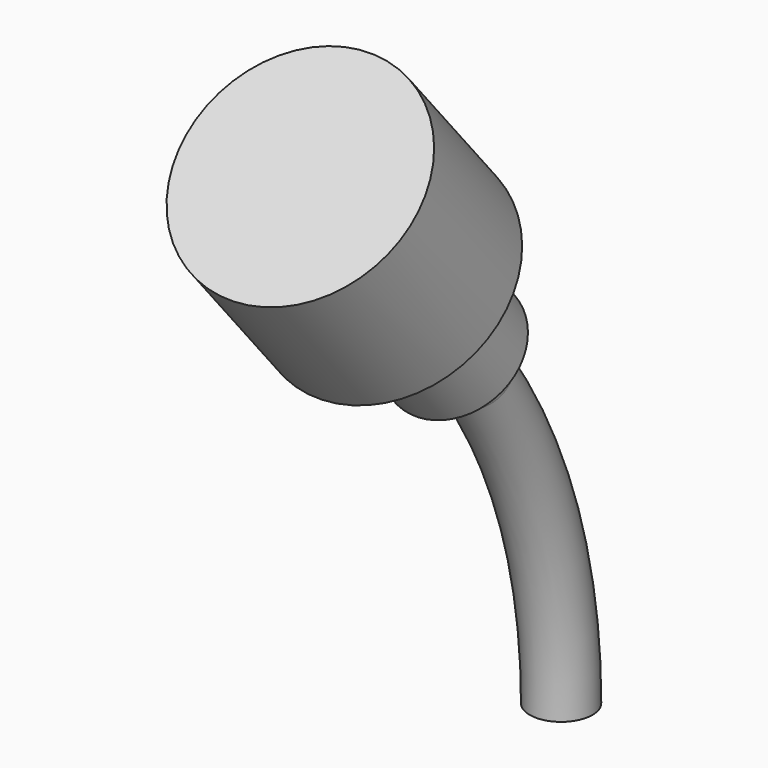
from build123d import *

# Parameters (mm, degrees)
CONE003_ROLL_ANGLE           = -35.5
BOX001027045014_W            = 10
BOX001027045014_H            = 24
BOX001027045014_DEPTH        = 22
BOX001027045014_ROLL_ANGLE   = -35.5
BOX001027045013_W            = 10
BOX001027045013_H            = 24
BOX001027045013_DEPTH        = 22
TORUS003_R                   = 1.1
TORUS003_PITCH_ANGLE         = 90
CYLINDER124_R                = 4
CYLINDER124_DEPTH            = 6
CYLINDER124_ROLL_ANGLE       = -40
CYLINDER123_R                = 2.2
CYLINDER123_DEPTH            = 10
CYLINDER123_ROLL_ANGLE       = -40
FUSION112028_PLACEMENT_ANGLE = 180


with BuildPart() as cone003:
    # Cone003 → Cone003 (revolve)
    with BuildSketch(Plane.XZ):
        Polygon((0, 0), (1.1, 0), (1.3, 2), (0, 2), align=None)
    revolve(axis=Axis((0, 0, 0), (0, 0, 1)))


with BuildPart() as cone003_1:
    # Cone003 roll: moved
    add(cone003.part.rotate(Axis((0, 0, 0), (1, 0, 0)), CONE003_ROLL_ANGLE))


with BuildPart() as cone003_2:
    # Cone003 placement: moved
    add(cone003_1.part.moved(Location((0, 3.71769, 11.614059))))


with BuildPart() as cube067:
    # Box001027045014 → Box001027045014 (new body)
    with BuildSketch(Plane.XY):
        with Locations((5, 12)):
            Rectangle(BOX001027045014_W, BOX001027045014_H)
    extrude(amount=BOX001027045014_DEPTH)


with BuildPart() as cube067_1:
    # Box001027045014 roll: moved
    add(cube067.part.rotate(Axis((0, 0, 0), (1, 0, 0)), BOX001027045014_ROLL_ANGLE))


with BuildPart() as cube067_2:
    # Box001027045014 placement: moved
    add(cube067_1.part.moved(Location((-5, 0.461228, 13.936871))))


with BuildPart() as cube066:
    # Box001027045013 → Box001027045013 (new body)
    with BuildSketch(Plane(origin=(-5, -4, 0), x_dir=(1, 0, 0), z_dir=(0, 0, 1))):
        with Locations((5, 12)):
            Rectangle(BOX001027045013_W, BOX001027045013_H)
    extrude(amount=BOX001027045013_DEPTH)


with BuildPart() as cut069:
    # Torus003 → Torus003 (revolve)
    with BuildSketch(Plane.XZ):
        with Locations((20, 0)):
            Circle(TORUS003_R)
    revolve(axis=Axis((0, 0, 0), (0, 0, 1)))


with BuildPart() as cut069_1:
    # Torus003 pitch: moved
    add(cut069.part.rotate(Axis((0, 0, 0), (0, 1, 0)), TORUS003_PITCH_ANGLE))


with BuildPart() as cut069_2:
    # Torus003 placement: moved
    add(cut069_1.part.moved(Location((0, 20, 0))))

    # Common055: intersect Cube066
    add(cube066.part, mode=Mode.INTERSECT)

    # Cut069: cut Cube067
    add(cube067_2.part, mode=Mode.SUBTRACT)


with BuildPart() as cylinder182:
    # Cylinder124 → Cylinder124 (new body)
    with BuildSketch(Plane.XY):
        Circle(CYLINDER124_R)
    extrude(amount=CYLINDER124_DEPTH)


with BuildPart() as cylinder182_1:
    # Cylinder124 roll: moved
    add(cylinder182.part.rotate(Axis((0, 0, 0), (1, 0, 0)), CYLINDER124_ROLL_ANGLE))


with BuildPart() as cylinder182_2:
    # Cylinder124 placement: moved
    add(cylinder182_1.part.moved(Location((0, 7.571655, 16.302952))))


with BuildPart() as obj1:
    # Cylinder123 → Cylinder123 (new body)
    with BuildSketch(Plane.XY):
        Circle(CYLINDER123_R)
    extrude(amount=CYLINDER123_DEPTH)


with BuildPart() as obj1_1:
    # Cylinder123 roll: moved
    add(obj1.part.rotate(Axis((0, 0, 0), (1, 0, 0)), CYLINDER123_ROLL_ANGLE))


with BuildPart() as obj1_2:
    # Cylinder123 placement: moved
    add(obj1_1.part.moved(Location((0, 4.679111, 12.855752))))

    # Fusion112028: union Cone003, Cut069, Cylinder182
    add(cone003_2.part)
    add(cut069_2.part)
    add(cylinder182_2.part)


with BuildPart() as obj1_3:
    # Fusion112028 placement: moved
    add(obj1_2.part.moved(Location((0, 0, 55))).rotate(Axis((0, 0, 55), (0, 0, 1)), FUSION112028_PLACEMENT_ANGLE))


solid = obj1_3.part
